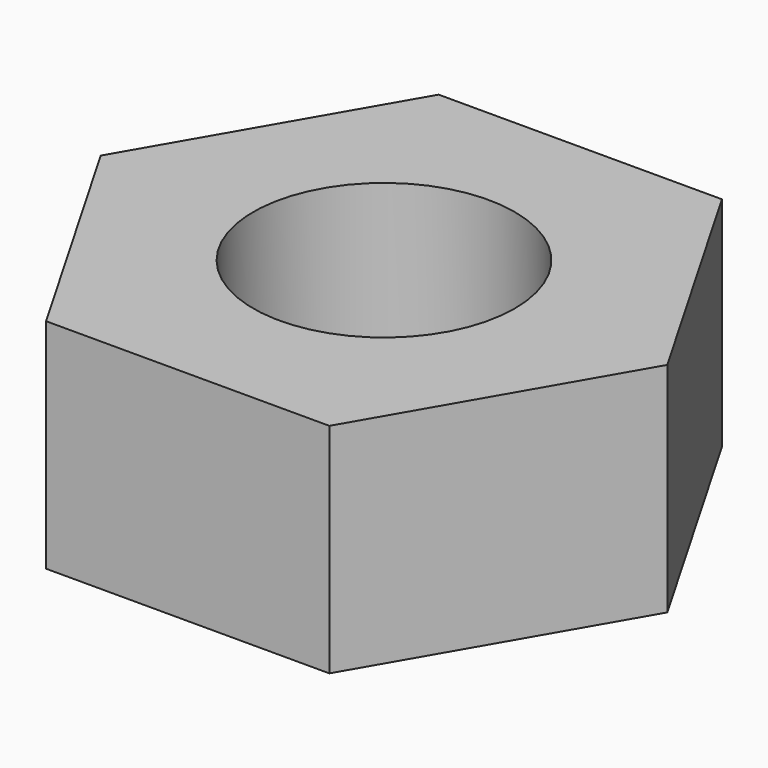
from build123d import *

# Parameters (mm, degrees)
F0_R     = 6.5
F1_DEPTH = 5
F3_DEPTH = 5.001
F4_R     = 3
F5_DEPTH = 5.001


with BuildPart() as f1:
    # F0 (on Top) → F1 (new body)
    with BuildSketch(Plane.XY):
        Circle(F0_R)
    extrude(amount=-F1_DEPTH)

    # F2 (on face) → F3 (cut, through all)
    with BuildSketch(Plane.XY):
        with BuildLine():
            Line((-3.25, 5.629165), (3.25, 5.629165))
            ThreePointArc((3.25, 5.629165), (0, 6.5), (-3.25, 5.629165))
        make_face()
        with BuildLine():
            Line((-6.5, 0), (-3.25, 5.629165))
            ThreePointArc((-3.25, 5.629165), (-5.629165, 3.25), (-6.5, 0))
        make_face()
        with BuildLine():
            ThreePointArc((-6.5, 0), (-5.629165, -3.25), (-3.25, -5.629165))
            Line((-3.25, -5.629165), (-6.5, 0))
        make_face()
        with BuildLine():
            ThreePointArc((-3.25, -5.629165), (0, -6.5), (3.25, -5.629165))
            Line((3.25, -5.629165), (-3.25, -5.629165))
        make_face()
        with BuildLine():
            ThreePointArc((3.25, -5.629165), (5.629165, -3.25), (6.5, 0))
            Line((6.5, 0), (3.25, -5.629165))
        make_face()
        with BuildLine():
            Line((3.25, 5.629165), (6.5, 0))
            ThreePointArc((6.5, 0), (5.629165, 3.25), (3.25, 5.629165))
        make_face()
    extrude(amount=-F3_DEPTH, mode=Mode.SUBTRACT)

    # F4 (on face) → F5 (cut, through all)
    with BuildSketch(Plane.XY):
        Circle(F4_R)
    extrude(amount=-F5_DEPTH, mode=Mode.SUBTRACT)


solid = f1.part
